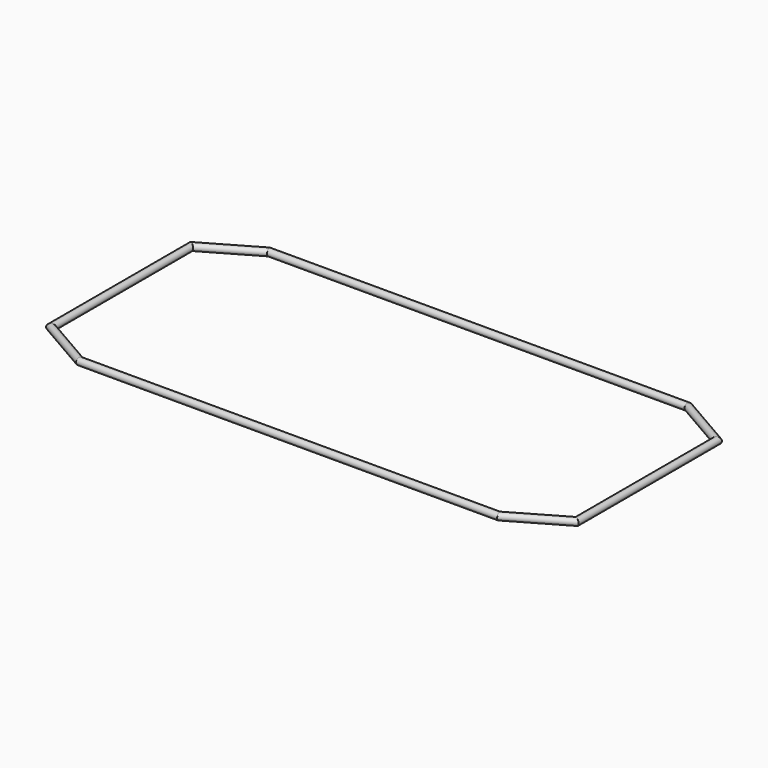
from build123d import *

# Parameters (mm, degrees)
F1_R   = 20
F1_R_2 = 18


with BuildPart() as f2:
    # F2: sweep along a path in F0
    with BuildLine(Plane.XY) as f2_path:
        Line((-1500, 0), (-1500, 500))
        Line((-1500, 500), (-1196.8911086754, 675))
        Line((-1196.8911086754, 675), (1196.8911086754, 675))
        Line((1196.8911086754, 675), (1500, 500))
        Line((1500, 500), (1500, 0))
        Line((1500, 0), (1500, -500))
        Line((1500, -500), (1196.8911086754, -675))
        Line((1196.8911086754, -675), (-1196.8911086754, -675))
        Line((-1196.8911086754, -675), (-1500, -500))
        Line((-1500, -500), (-1500, 0))
    # F1 (on Front) → F2 (sweep)
    with BuildSketch(Plane.XZ):
        with Locations((-1500, 0)):
            Circle(F1_R)
        with Locations((-1500, 0)):
            Circle(F1_R_2, mode=Mode.SUBTRACT)
    sweep(path=f2_path.line, transition=Transition.RIGHT)


solid = f2.part
